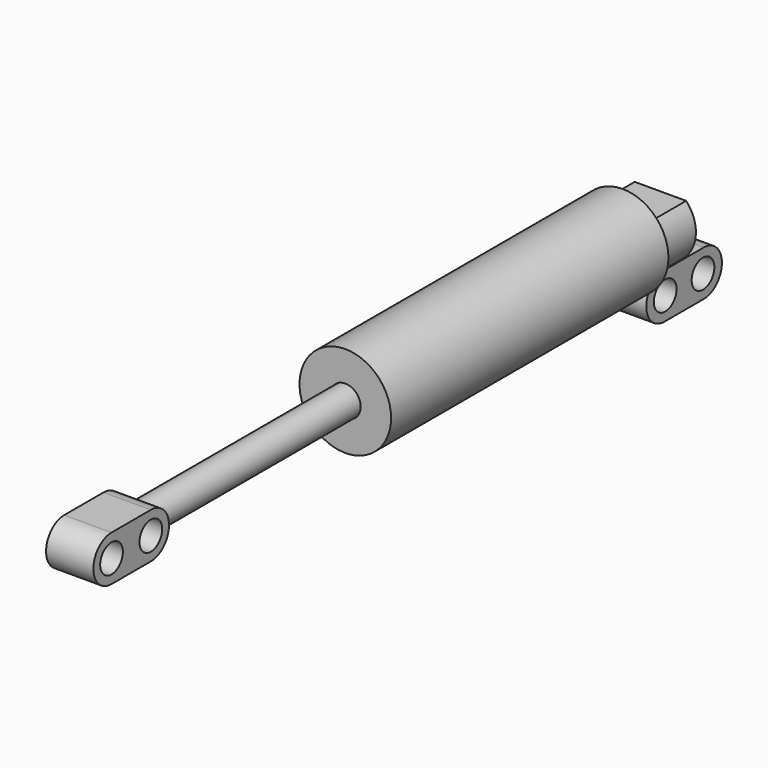
from build123d import *

# Parameters (mm, degrees)
F1_R      = 7.3787
F2_DEPTH  = 31.75
F3_R      = 2.4765
F4_DEPTH  = 63.5
F5_R      = 7.3787
F6_DEPTH  = 7.62
F7_R      = 2.286
F8_DEPTH  = 3.81
F9_R      = 2.286
F10_DEPTH = 3.81
F11_R     = 2.4384


with BuildPart() as f2:
    # F1 (on Front) → F2 (new body, symmetric)
    with BuildSketch(Plane.XZ):
        Circle(F1_R)
    extrude(amount=F2_DEPTH, both=True)

    # F3 (on face) → F4 (cut, through all)
    with BuildSketch(Plane.XZ.offset(31.75)):
        Circle(F3_R)
    extrude(amount=-F4_DEPTH, mode=Mode.SUBTRACT)

    # F5 (on face) → F6 (cut)
    with BuildSketch(Plane(origin=(0, 31.75, 0), x_dir=(-1, 0, 0), z_dir=(0, 1, 0))):
        Circle(F5_R)
        with BuildLine():
            ThreePointArc((4.1426146333, 3.937), (0, -5.715), (-4.1426146333, 3.937))
            Line((-4.1426146333, 3.937), (4.1426146333, 3.937))
        make_face(mode=Mode.SUBTRACT)
    extrude(amount=-F6_DEPTH, mode=Mode.SUBTRACT)

    # F7 (on Right) → F8 (join, symmetric)
    with BuildSketch(Plane.YZ):
        with BuildLine():
            Line((35.7124, -4.3942), (27.7876, -4.3942))
            ThreePointArc((27.7876, -4.3942), (24.13, -8.0518), (27.7876, -11.7094))
            Line((27.7876, -11.7094), (35.7124, -11.7094))
            ThreePointArc((35.7124, -11.7094), (39.37, -8.0518), (35.7124, -4.3942))
        make_face()
        with Locations((27.94, -8.0518)):
            Circle(F7_R, mode=Mode.SUBTRACT)
        with Locations((35.56, -8.0518)):
            Circle(F7_R, mode=Mode.SUBTRACT)
    extrude(amount=F8_DEPTH, both=True)


with BuildPart() as f10:
    # F9 (on Right) → F10 (new body, symmetric)
    with BuildSketch(Plane.YZ):
        with BuildLine():
            Line((-83.6168, -3.6576), (-75.692, -3.6576))
            ThreePointArc((-75.692, -3.6576), (-72.0344, 0), (-75.692, 3.6576))
            Line((-75.692, 3.6576), (-83.6168, 3.6576))
            ThreePointArc((-83.6168, 3.6576), (-87.2744, 0), (-83.6168, -3.6576))
        make_face()
        with Locations((-83.6168, 0)):
            Circle(F9_R, mode=Mode.SUBTRACT)
        with Locations((-75.692, 0)):
            Circle(F9_R, mode=Mode.SUBTRACT)
    extrude(amount=F10_DEPTH, both=True)

    # F11 (on offset) → F12 (join, up to the next surface of F10)
    with BuildSketch(Plane.XZ.offset(28.575)):
        Circle(F11_R)
    extrude(until=Until.NEXT)


solid = Compound([f2.part, f10.part])
